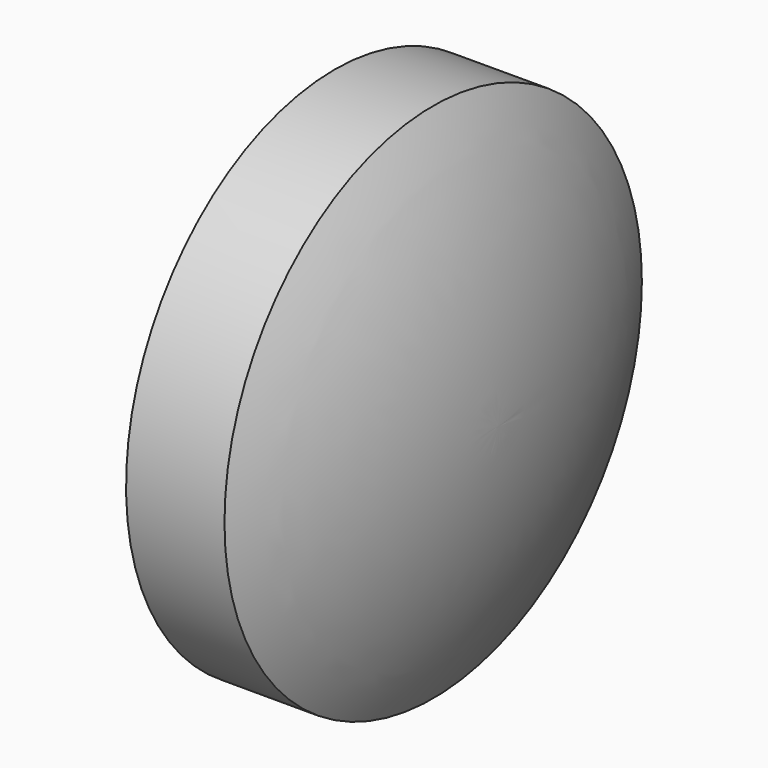
from build123d import *

# Parameters (mm, degrees)
F0_R     = 13.25
F1_DEPTH = 5


with BuildPart() as f1:
    # F0 (on Right) → F1 (new body)
    with BuildSketch(Plane.YZ):
        Circle(F0_R)
    extrude(amount=F1_DEPTH)

    # F2 (on Top) → F4 (revolve)
    with BuildSketch(Plane.XY):
        with BuildLine():
            ThreePointArc((8.325502, 0), (7.481431, 6.830473), (5, 13.25))
            Line((5, 13.25), (5, 0))
            Line((5, 0), (8.325502, 0))
        make_face()
    revolve(axis=Axis((5.30408, 0, 0), (1, 0, 0)))

    # F5 (on Front) → F6 (revolve)
    with BuildSketch(Plane.XZ):
        with BuildLine():
            Line((-1.236098, 0), (0, 0))
            Line((0, 0), (0, 13.25))
            ThreePointArc((0, 13.25), (-0.926404, 6.653767), (-1.236098, 0))
        make_face()
    revolve(axis=Axis((-0.618049, 0, 0), (-1, 0, 0)))


solid = f1.part
